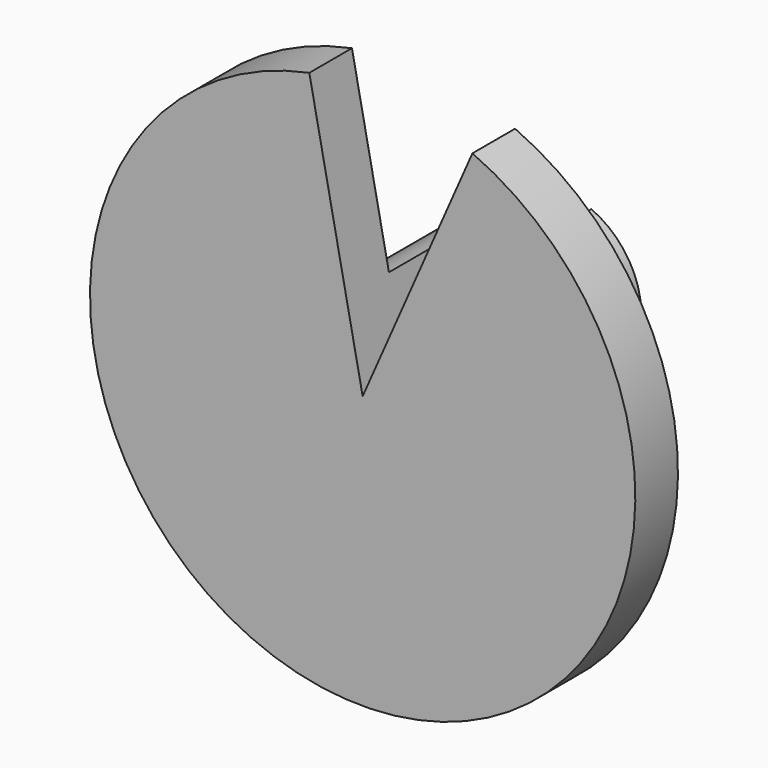
from build123d import *

# Parameters (mm, degrees)
F0_R     = 11
F1_DEPTH = 25
F2_R     = 35.80237
F3_DEPTH = 7
F5_DEPTH = 32.001


with BuildPart() as f1:
    # F0 (on Front) → F1 (new body)
    with BuildSketch(Plane.XZ):
        with Locations((-12.781085, 38.115203)):
            Circle(F0_R)
    extrude(amount=F1_DEPTH)

    # F2 (on face) → F3 (join)
    with BuildSketch(Plane.XZ.offset(25)):
        with Locations((-12.781085, 38.115203)):
            Circle(F2_R)
    extrude(amount=F3_DEPTH)

    # F4 (on face) → F5 (cut, through all)
    with BuildSketch(Plane.XZ.offset(32)):
        Polygon((-7.421601, 82.684956), (-19.784253, 73.225961), (-12.781085, 38.115203), (1.632773, 70.887911), align=None)
    extrude(amount=-F5_DEPTH, mode=Mode.SUBTRACT)


solid = f1.part
